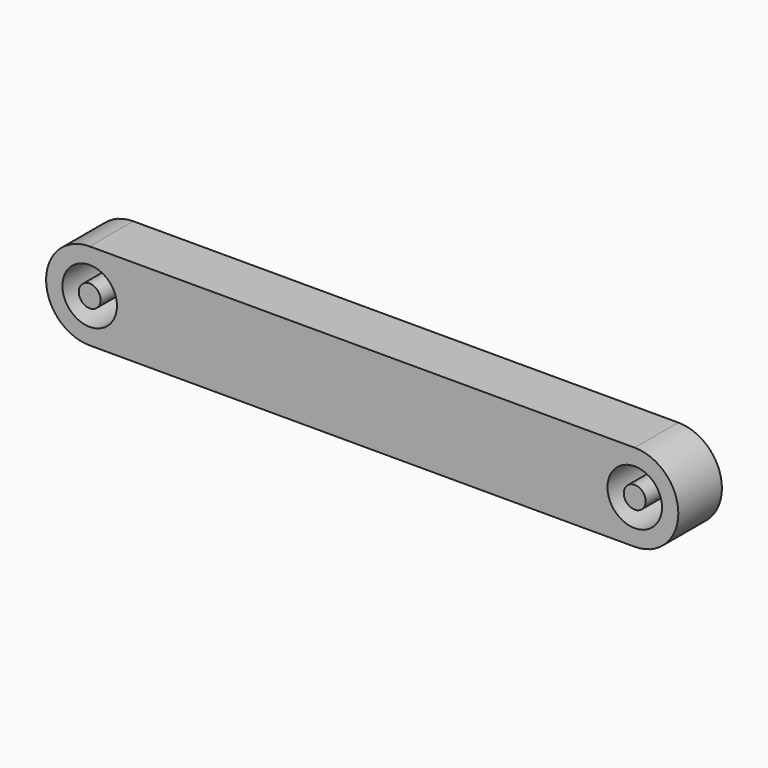
from build123d import *

# Parameters (mm, degrees)
F0_R     = 2.5019
F0_R_2   = 1.0033
F1_DEPTH = 2.5


with BuildPart() as f1:
    # F0 (on Front) → F1 (new body, symmetric)
    with BuildSketch(Plane.XZ):
        with BuildLine():
            Line((50.0126, 4.0005), (0, 4.0005))
            ThreePointArc((0, 4.0005), (-4.0005, 0), (0, -4.0005))
            Line((0, -4.0005), (50.0126, -4.0005))
            ThreePointArc((50.0126, -4.0005), (54.0131, 0), (50.0126, 4.0005))
        make_face()
        Circle(F0_R, mode=Mode.SUBTRACT)
        with Locations((50.0126, 0)):
            Circle(F0_R, mode=Mode.SUBTRACT)
        Circle(F0_R_2)
        with Locations((50.0126, 0)):
            Circle(F0_R_2)
    extrude(amount=F1_DEPTH, both=True)


solid = f1.part
